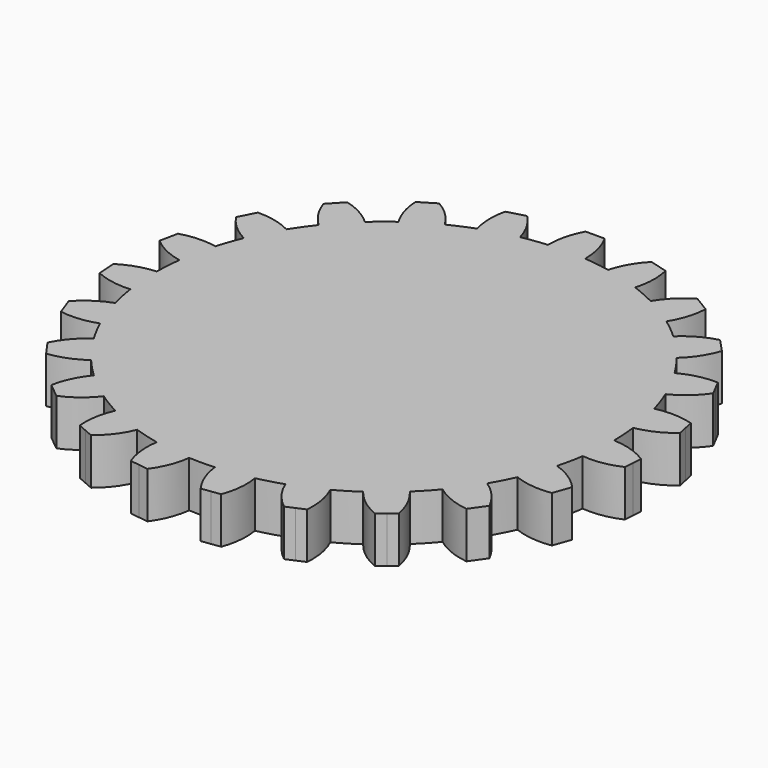
from build123d import *

# Parameters (mm, degrees)
F1_DEPTH = 7.874


with BuildPart() as f1:
    # F0 (on Top) → F1 (new body)
    with BuildSketch(Plane.XY):
        with BuildLine():
            ThreePointArc((-21.988282, -32.112589), (-20.122802, -33.313297), (-18.191936, -34.405761))
            ThreePointArc((-18.191936, -34.405761), (-15.392188, -35.746097), (-12.49453, -36.859051))
            ThreePointArc((-12.49453, -36.859051), (-10.38103, -37.509161), (-8.23402, -38.038189))
            ThreePointArc((-8.23402, -38.038189), (-5.158169, -38.57585), (-2.049116, -38.865204))
            ThreePointArc((-2.049116, -38.865204), (0.130137, -38.918967), (2.308982, -38.850631))
            ThreePointArc((2.308982, -38.850631), (5.394442, -38.54352), (8.445662, -37.991758))
            ThreePointArc((8.445662, -37.991758), (10.577407, -37.454257), (12.6754, -36.797244))
            ThreePointArc((12.6754, -36.797244), (15.555857, -35.675177), (18.338174, -34.32804))
            ThreePointArc((18.338174, -34.32804), (20.251315, -33.23533), (22.099557, -32.036113))
            ThreePointArc((22.099557, -32.036113), (24.583975, -30.171694), (26.911797, -28.115087))
            ThreePointArc((26.911797, -28.115087), (28.45789, -26.549038), (29.912996, -24.898104))
            ThreePointArc((29.912996, -24.898104), (31.788771, -22.453885), (33.465324, -19.868947))
            ThreePointArc((33.465324, -19.868947), (34.538009, -17.939589), (35.499579, -15.952517))
            ThreePointArc((35.499579, -15.952517), (36.653309, -13.08579), (37.575963, -10.136565))
            ThreePointArc((37.575963, -10.136565), (38.092075, -7.981021), (38.484642, -5.799592))
            ThreePointArc((38.484642, -5.799592), (38.822474, -2.741983), (38.917762, 0.332757))
            ThreePointArc((38.917762, 0.332757), (38.836506, 2.535497), (38.630675, 4.730104))
            ThreePointArc((38.630675, 4.730104), (38.132925, 7.783505), (37.394224, 10.787723))
            ThreePointArc((37.394224, 10.787723), (36.717077, 12.905781), (35.920069, 14.981708))
            ThreePointArc((35.920069, 14.981708), (34.611011, 17.798339), (33.081518, 20.501612))
            ThreePointArc((33.081518, 20.501612), (31.877893, 22.327178), (30.57364, 24.082264))
            ThreePointArc((30.57364, 24.082264), (28.552974, 26.44675), (26.349949, 28.64233))
            ThreePointArc((26.349949, 28.64233), (24.687381, 30.087142), (22.945739, 31.435584))
            ThreePointArc((22.945739, 31.435584), (20.364289, 33.166228), (17.652979, 34.685375))
            ThreePointArc((17.652979, 34.685375), (15.652159, 35.63303), (13.600691, 36.465383))
            ThreePointArc((13.600691, 36.465383), (10.647237, 37.434466), (7.625866, 38.164762))
            ThreePointArc((7.625866, 38.164762), (5.438195, 38.537371), (3.232843, 38.784683))
            ThreePointArc((3.232843, 38.784683), (3.168915, 38.789959), (3.104978, 38.795129))
            ThreePointArc((3.104978, 38.795129), (2.759904, 41.889046), (1.652397, 44.798484))
            ThreePointArc((1.652397, 44.798484), (1.622209, 44.854723), (1.591731, 44.910806))
            Line((1.591731, 44.910806), (0, 44.910806))
            Line((0, 44.910806), (-1.591731, 44.910806))
            ThreePointArc((-1.591731, 44.910806), (-2.744733, 41.951046), (-3.104978, 38.795129))
            ThreePointArc((-3.104978, 38.795129), (-5.253249, 38.563017), (-7.385327, 38.212038))
            ThreePointArc((-7.385327, 38.212038), (-10.411659, 37.50067), (-13.371558, 36.550025))
            ThreePointArc((-13.371558, 36.550025), (-15.440243, 35.725366), (-17.458373, 34.783734))
            ThreePointArc((-17.458373, 34.783734), (-20.178984, 33.279295), (-22.770837, 31.562508))
            ThreePointArc((-22.770837, 31.562508), (-24.54028, 30.207243), (-26.229241, 28.75291))
            ThreePointArc((-26.229241, 28.75291), (-28.440519, 26.567646), (-30.470322, 24.212856))
            ThreePointArc((-30.470322, 24.212856), (-31.806505, 22.428757), (-33.03836, 20.571089))
            ThreePointArc((-33.03836, 20.571089), (-34.574865, 17.868453), (-35.890753, 15.051802))
            ThreePointArc((-35.890753, 15.051802), (-36.693081, 12.973848), (-37.375215, 10.853397))
            ThreePointArc((-37.375215, 10.853397), (-38.122243, 7.835654), (-38.626026, 4.767914))
            ThreePointArc((-38.626026, 4.767914), (-38.835335, 2.55337), (-38.917781, 0.330485))
            ThreePointArc((-38.917781, 0.330485), (-38.820007, -2.776685), (-38.474554, -5.866139))
            ThreePointArc((-38.474554, -5.866139), (-38.077464, -8.050446), (-37.556468, -10.208557))
            ThreePointArc((-37.556468, -10.208557), (-36.62198, -13.173212), (-35.453876, -16.053834))
            ThreePointArc((-35.453876, -16.053834), (-34.483186, -18.044745), (-33.400808, -19.977211))
            ThreePointArc((-33.400808, -19.977211), (-31.70024, -22.578701), (-29.79751, -25.0362))
            ThreePointArc((-29.79751, -25.0362), (-28.32882, -26.686718), (-26.768837, -28.251235))
            ThreePointArc((-26.768837, -28.251235), (-24.454891, -30.276414), (-21.988282, -32.112589))
        make_face()
        with BuildLine():
            ThreePointArc((-12.49453, -36.859051), (-15.392188, -35.746097), (-18.191936, -34.405761))
            ThreePointArc((-18.191936, -34.405761), (-19.118216, -37.470766), (-19.225736, -40.670874))
            Line((-19.225736, -40.670874), (-17.765783, -41.305022))
            Line((-17.765783, -41.305022), (-16.305829, -41.939169))
            ThreePointArc((-16.305829, -41.939169), (-14.068175, -39.648193), (-12.49453, -36.859051))
        make_face()
        with BuildLine():
            ThreePointArc((-26.981213, -35.954664), (-24.235731, -34.357234), (-21.988282, -32.112589))
            ThreePointArc((-21.988282, -32.112589), (-24.454891, -30.276414), (-26.768837, -28.251235))
            ThreePointArc((-26.768837, -28.251235), (-28.47847, -30.924775), (-29.450661, -33.94562))
            Line((-29.450661, -33.94562), (-28.215937, -34.950142))
            Line((-28.215937, -34.950142), (-26.981213, -35.954664))
        make_face()
        with BuildLine():
            ThreePointArc((-2.049116, -38.865204), (-5.158169, -38.57585), (-8.23402, -38.038189))
            ThreePointArc((-8.23402, -38.038189), (-8.317071, -41.257069), (-7.565528, -44.388087))
            Line((-7.565528, -44.388087), (-5.988623, -44.604827))
            Line((-5.988623, -44.604827), (-4.411717, -44.821568))
            ThreePointArc((-4.411717, -44.821568), (-2.837532, -41.999224), (-2.049116, -38.865204))
        make_face()
        with BuildLine():
            ThreePointArc((-35.646125, -27.311897), (-32.574912, -26.551602), (-29.79751, -25.0362))
            ThreePointArc((-29.79751, -25.0362), (-31.70024, -22.578701), (-33.400808, -19.977211))
            ThreePointArc((-33.400808, -19.977211), (-35.745696, -22.081808), (-37.481965, -24.711105))
            Line((-37.481965, -24.711105), (-36.564045, -26.011501))
            Line((-36.564045, -26.011501), (-35.646125, -27.311897))
        make_face()
        with BuildLine():
            ThreePointArc((8.445662, -37.991758), (5.394442, -38.54352), (2.308982, -38.850631))
            ThreePointArc((2.308982, -38.850631), (3.092523, -41.991796), (4.66518, -44.821568))
            Line((4.66518, -44.821568), (6.242085, -44.604827))
            Line((6.242085, -44.604827), (7.818991, -44.388087))
            ThreePointArc((7.818991, -44.388087), (8.555536, -41.231386), (8.445662, -37.991758))
        make_face()
        with BuildLine():
            ThreePointArc((-41.657928, -16.651862), (-38.51757, -16.750514), (-35.453876, -16.053834))
            ThreePointArc((-35.453876, -16.053834), (-36.62198, -13.173212), (-37.556468, -10.208557))
            ThreePointArc((-37.556468, -10.208557), (-40.360127, -11.600417), (-42.724005, -13.65221))
            Line((-42.724005, -13.65221), (-42.190966, -15.152036))
            Line((-42.190966, -15.152036), (-41.657928, -16.651862))
        make_face()
        with BuildLine():
            ThreePointArc((18.338174, -34.32804), (15.555857, -35.675177), (12.6754, -36.797244))
            ThreePointArc((12.6754, -36.797244), (14.276204, -39.625884), (16.559292, -41.939169))
            Line((16.559292, -41.939169), (18.019246, -41.305022))
            Line((18.019246, -41.305022), (19.479199, -40.670874))
            ThreePointArc((19.479199, -40.670874), (19.329553, -37.423746), (18.338174, -34.32804))
        make_face()
        with BuildLine():
            ThreePointArc((-44.570754, -4.765165), (-41.59278, -5.703944), (-38.474554, -5.866139))
            ThreePointArc((-38.474554, -5.866139), (-38.820007, -2.776685), (-38.917781, 0.330485))
            ThreePointArc((-38.917781, 0.330485), (-41.974778, -0.256587), (-44.788001, -1.589124))
            Line((-44.788001, -1.589124), (-44.679377, -3.177144))
            Line((-44.679377, -3.177144), (-44.570754, -4.765165))
        make_face()
        with BuildLine():
            ThreePointArc((26.911797, -28.115087), (24.583975, -30.171694), (22.099557, -32.036113))
            ThreePointArc((22.099557, -32.036113), (24.40649, -34.33693), (27.234676, -35.954664))
            Line((27.234676, -35.954664), (28.4694, -34.950142))
            Line((28.4694, -34.950142), (29.704123, -33.94562))
            ThreePointArc((29.704123, -33.94562), (28.69608, -30.844477), (26.911797, -28.115087))
        make_face()
        with BuildLine():
            ThreePointArc((-44.168572, 7.466613), (-41.568326, 5.766012), (-38.626026, 4.767914))
            ThreePointArc((-38.626026, 4.767914), (-38.122243, 7.835654), (-37.375215, 10.853397))
            ThreePointArc((-37.375215, 10.853397), (-40.465114, 11.107065), (-43.520877, 10.583489))
            Line((-43.520877, 10.583489), (-43.844724, 9.025051))
            Line((-43.844724, 9.025051), (-44.168572, 7.466613))
        make_face()
        with BuildLine():
            ThreePointArc((33.465324, -19.868947), (31.788771, -22.453885), (29.912996, -24.898104))
            ThreePointArc((29.912996, -24.898104), (32.745866, -26.502884), (35.899588, -27.311897))
            Line((35.899588, -27.311897), (36.817508, -26.011501))
            Line((36.817508, -26.011501), (37.735428, -24.711105))
            ThreePointArc((37.735428, -24.711105), (35.922256, -22.006173), (33.465324, -19.868947))
        make_face()
        with BuildLine():
            ThreePointArc((-40.481209, 19.136295), (-38.44396, 16.804113), (-35.890753, 15.051802))
            ThreePointArc((-35.890753, 15.051802), (-34.574865, 17.868453), (-33.03836, 20.571089))
            ThreePointArc((-33.03836, 20.571089), (-35.939676, 21.644147), (-39.01661, 21.962843))
            Line((-39.01661, 21.962843), (-39.74891, 20.549569))
            Line((-39.74891, 20.549569), (-40.481209, 19.136295))
        make_face()
        with BuildLine():
            ThreePointArc((37.575963, -10.136565), (36.653309, -13.08579), (35.499579, -15.952517))
            ThreePointArc((35.499579, -15.952517), (38.659043, -16.727988), (41.911391, -16.651862))
            Line((41.911391, -16.651862), (42.444429, -15.152036))
            Line((42.444429, -15.152036), (42.977467, -13.65221))
            ThreePointArc((42.977467, -13.65221), (40.509996, -11.53597), (37.575963, -10.136565))
        make_face()
        with BuildLine():
            ThreePointArc((-33.782142, 29.378395), (-32.452023, 26.586749), (-30.470322, 24.212856))
            ThreePointArc((-30.470322, 24.212856), (-28.440519, 26.567646), (-26.229241, 28.75291))
            ThreePointArc((-26.229241, 28.75291), (-28.733041, 30.568305), (-31.60926, 31.704984))
            Line((-31.60926, 31.704984), (-32.695701, 30.541689))
            Line((-32.695701, 30.541689), (-33.782142, 29.378395))
        make_face()
        with BuildLine():
            ThreePointArc((38.917762, 0.332757), (38.822474, -2.741983), (38.484642, -5.799592))
            ThreePointArc((38.484642, -5.799592), (41.722833, -5.701593), (44.824217, -4.765165))
            Line((44.824217, -4.765165), (44.93284, -3.177144))
            Line((44.93284, -3.177144), (45.041464, -1.589124))
            ThreePointArc((45.041464, -1.589124), (42.106594, -0.223584), (38.917762, 0.332757))
        make_face()
        with BuildLine():
            ThreePointArc((-24.568208, 37.433304), (-24.040028, 34.384474), (-22.770837, 31.562508))
            ThreePointArc((-22.770837, 31.562508), (-20.178984, 33.279295), (-17.458373, 34.783734))
            ThreePointArc((-17.458373, 34.783734), (-19.381329, 37.212958), (-21.848197, 39.08738))
            Line((-21.848197, 39.08738), (-23.208203, 38.260342))
            Line((-23.208203, 38.260342), (-24.568208, 37.433304))
        make_face()
        with BuildLine():
            ThreePointArc((37.394224, 10.787723), (38.132925, 7.783505), (38.630675, 4.730104))
            ThreePointArc((38.630675, 4.730104), (41.706783, 5.716511), (44.422035, 7.466613))
            Line((44.422035, 7.466613), (44.098187, 9.025051))
            Line((44.098187, 9.025051), (43.77434, 10.583489))
            ThreePointArc((43.77434, 10.583489), (40.5977, 11.10478), (37.394224, 10.787723))
        make_face()
        with BuildLine():
            ThreePointArc((-13.522764, 42.703625), (-13.836538, 39.617258), (-13.371558, 36.550025))
            ThreePointArc((-13.371558, 36.550025), (-10.411659, 37.50067), (-7.385327, 38.212038))
            ThreePointArc((-7.385327, 38.212038), (-8.581975, 41.082126), (-10.457354, 43.562513))
            Line((-10.457354, 43.562513), (-11.990059, 43.133069))
            Line((-11.990059, 43.133069), (-13.522764, 42.703625))
        make_face()
        with BuildLine():
            ThreePointArc((33.081518, 20.501612), (34.611011, 17.798339), (35.920069, 14.981708))
            ThreePointArc((35.920069, 14.981708), (38.599262, 16.743916), (40.734672, 19.136295))
            Line((40.734672, 19.136295), (40.002373, 20.549569))
            Line((40.002373, 20.549569), (39.270073, 21.962843))
            ThreePointArc((39.270073, 21.962843), (36.080176, 21.637191), (33.081518, 20.501612))
        make_face()
        with BuildLine():
            ThreePointArc((26.349949, 28.64233), (28.552974, 26.44675), (30.57364, 24.082264))
            ThreePointArc((30.57364, 24.082264), (32.649413, 26.504948), (34.035605, 29.378395))
            Line((34.035605, 29.378395), (32.949164, 30.541689))
            Line((32.949164, 30.541689), (31.862723, 31.704984))
            ThreePointArc((31.862723, 31.704984), (28.907631, 30.531327), (26.349949, 28.64233))
        make_face()
        with BuildLine():
            ThreePointArc((17.652979, 34.685375), (20.364289, 33.166228), (22.945739, 31.435584))
            ThreePointArc((22.945739, 31.435584), (24.271426, 34.313175), (24.821671, 37.433304))
            Line((24.821671, 37.433304), (23.461666, 38.260342))
            Line((23.461666, 38.260342), (22.10166, 39.08738))
            ThreePointArc((22.10166, 39.08738), (19.59396, 37.172741), (17.652979, 34.685375))
        make_face()
        with BuildLine():
            Line((1.718462, 44.798484), (1.652397, 44.798484))
            ThreePointArc((1.652397, 44.798484), (2.759904, 41.889046), (3.104978, 38.795129))
            ThreePointArc((3.104978, 38.795129), (3.168915, 38.789959), (3.232843, 38.784683))
            ThreePointArc((3.232843, 38.784683), (2.859126, 41.888149), (1.718462, 44.798484))
        make_face()
        with BuildLine():
            ThreePointArc((7.625866, 38.164762), (10.647237, 37.434466), (13.600691, 36.465383))
            ThreePointArc((13.600691, 36.465383), (14.088841, 39.573238), (13.776227, 42.703625))
            Line((13.776227, 42.703625), (12.243522, 43.133069))
            Line((12.243522, 43.133069), (10.710817, 43.562513))
            ThreePointArc((10.710817, 43.562513), (8.823257, 41.060862), (7.625866, 38.164762))
        make_face()
    extrude(amount=F1_DEPTH)


solid = f1.part
